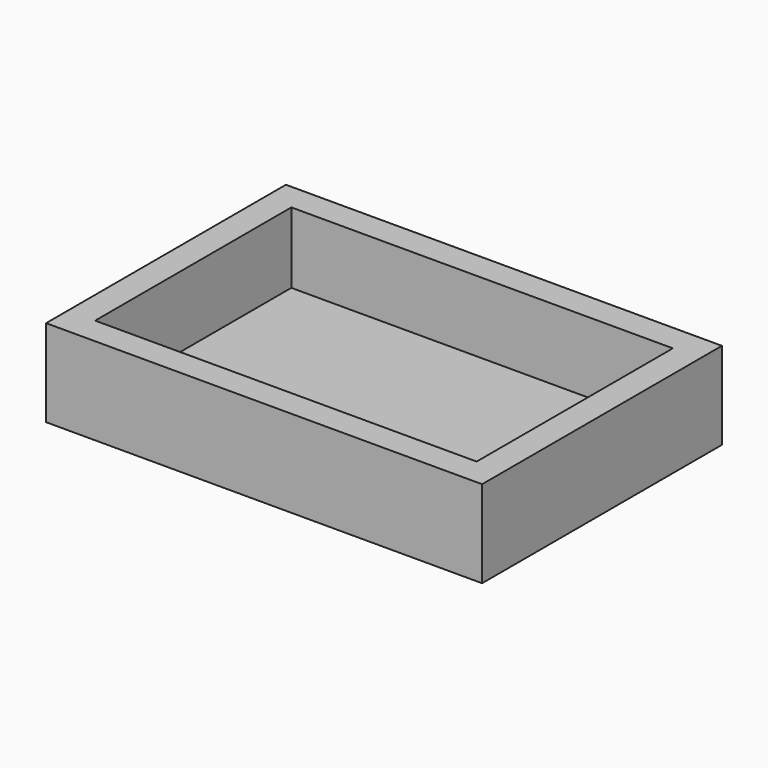
from build123d import *

# Parameters (mm, degrees)
F0_W        = 88.9
F0_H        = 57.15
F1_DEPTH    = 3.81
F2_W        = 6.35
F2_H        = 57.15
F3_DEPTH    = 7.62
F4_W        = 95.25
F4_H        = 6.35
F5_DEPTH    = 7.62
F6_W        = 6.35
F6_H        = 63.5
F7_DEPTH    = 7.62
F8_W        = 101.6
F8_H        = 6.35
F9_DEPTH    = 7.62
F9_FACE_W   = 101.6
F9_FACE_H   = 69.85
F9_FACE_W_2 = 88.9
F9_FACE_H_2 = 57.15
F10_DEPTH   = 12.7


with BuildPart() as f1:
    # F0 (on Top) → F1 (new body)
    with BuildSketch(Plane.XY):
        Rectangle(F0_W, F0_H)
    extrude(amount=F1_DEPTH)

    # F2 (on Top) → F3 (join)
    with BuildSketch(Plane.XY):
        with Locations((-47.625, 0)):
            Rectangle(F2_W, F2_H)
    extrude(amount=F3_DEPTH)

    # F4 (on Top) → F5 (join)
    with BuildSketch(Plane.XY):
        with Locations((-3.175, -31.75)):
            Rectangle(F4_W, F4_H)
    extrude(amount=F5_DEPTH)

    # F6 (on Top) → F7 (join)
    with BuildSketch(Plane.XY):
        with Locations((47.625, -3.175)):
            Rectangle(F6_W, F6_H)
    extrude(amount=F7_DEPTH)

    # F8 (on Top) → F9 (join)
    with BuildSketch(Plane.XY):
        with Locations((0, 31.75)):
            Rectangle(F8_W, F8_H)
    extrude(amount=F9_DEPTH)

    # F9_face (on face) → F10 (join)
    with BuildSketch(Plane.XY.offset(7.62)):
        Rectangle(F9_FACE_W, F9_FACE_H)
        Rectangle(F9_FACE_W_2, F9_FACE_H_2, mode=Mode.SUBTRACT)
    extrude(amount=F10_DEPTH)


solid = f1.part
